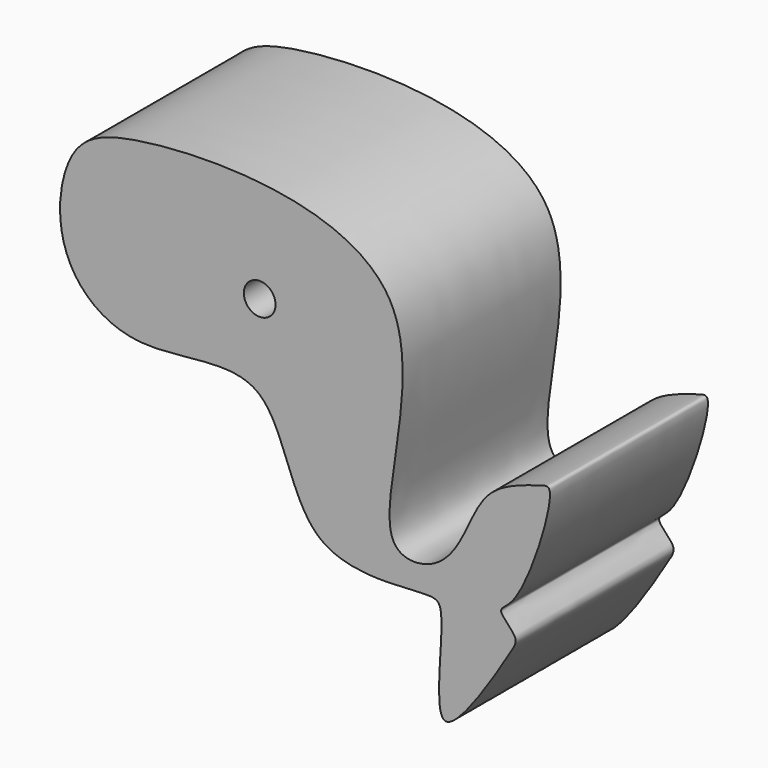
from build123d import *

# Parameters (mm, degrees)
F0_R     = 4.0773656001
F1_DEPTH = 50.8


with BuildPart() as f1:
    # F0 (on Front) → F1 (new body)
    with BuildSketch(Plane.XZ):
        with BuildLine():
            add(Edge.make_bspline(
                [(-38.7927293777, 29.0945470333), (-20.4791419493, 31.7857970057), (47.6165601075, 31.1784896859), (16.6637863279, -44.0905273017), (38.3058827915, -43.8207177488), (45.2175025038, -31.8457977381), (50.1966274375, -19.319805408), (63.3026543786, -15.7098267951), (68.9918286672, -13.8235037121), (59.3923519596, -45.017830677), (51.9821928097, -46.5964479773), (58.7036277334, -51.9370908282), (56.2087999402, -55.9401989452), (35.714408653, -89.1415382368), (38.1348354269, -65.8471233398), (38.4896583855, -58.5977527338)],
                knots=[0, 0, 0, 0, 0.0940667285, 0.179583034, 0.2172394298, 0.2596566666, 0.3021012074, 0.3437892515, 0.3619368965, 0.424499444, 0.4508743731, 0.4778428751, 0.5047473384, 0.5637681791, 0.6066699372, 0.6066699372, 0.6066699372, 0.6066699372], degree=3))
            add(Edge.make_bspline(
                [(-59.4857775427, 8.794547811), (-59.2607521657, 12.8504041835), (-56.3826567128, 23.8712878257), (-48.9510970638, 27.6017370166), (-38.7927293777, 29.0945470333)],
                knots=[0.9195252648, 0.9195252648, 0.9195252648, 0.9195252648, 0.9478221065, 1, 1, 1, 1], degree=3))
            add(Edge.make_bspline(
                [(38.4896583855, -52.7338646352), (38.1987294849, -50.1458085641), (34.8989992442, -48.6921000755), (0.0144696198, -54.5546710387), (-2.2315525746, -7.5504226872), (-40.6157964946, -21.7446488422), (-58.2197446071, -7.2556310603), (-59.6953348092, 5.0174885922), (-59.4857775427, 8.794547811)],
                knots=[0.6205961178, 0.6205961178, 0.6205961178, 0.6205961178, 0.6458564581, 0.7067577402, 0.7730371019, 0.8373085906, 0.8931735312, 0.9195252648, 0.9195252648, 0.9195252648, 0.9195252648], degree=3))
            add(Edge.make_bspline(
                [(38.4896583855, -58.5977527338), (38.6048361499, -56.2445614326), (38.6500492735, -54.1606758271), (38.4896583855, -52.7338646352)],
                knots=[0.6066699372, 0.6066699372, 0.6066699372, 0.6066699372, 0.6205961178, 0.6205961178, 0.6205961178, 0.6205961178], degree=3))
        make_face()
        with Locations((-8.1828413531, 3.3337501809)):
            Circle(F0_R, mode=Mode.SUBTRACT)
    extrude(amount=F1_DEPTH)


solid = f1.part
